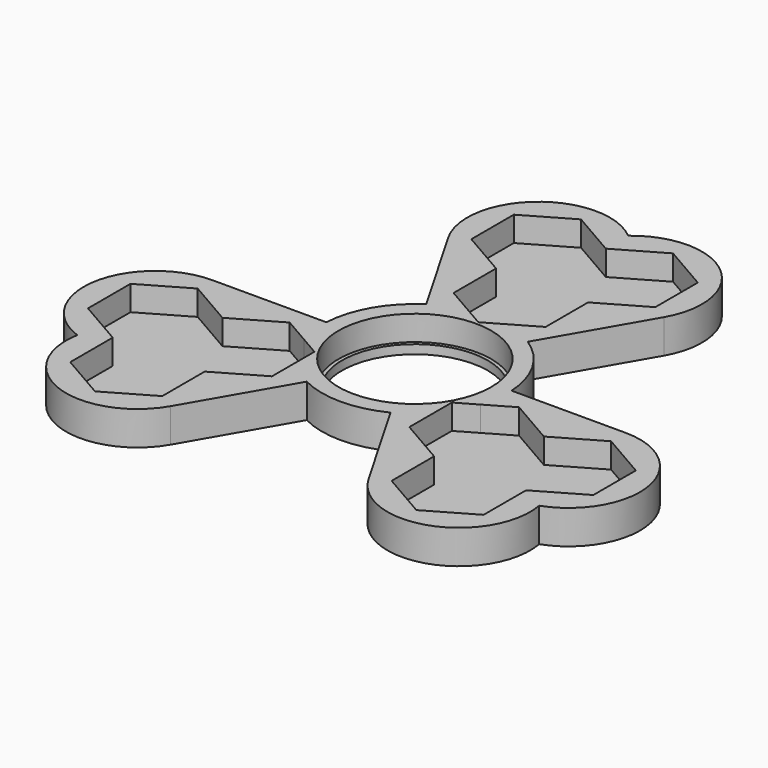
from build123d import *

# Parameters (mm, degrees)
F0_R     = 10.7
F1_DEPTH = 3.5
F0_R_2   = 10.2
F2_DEPTH = 1.25


with BuildPart() as f1:
    # F0 (on Top) → F1 (new body)
    with BuildSketch(Plane.XY):
        with BuildLine():
            Line((-15.105254, 24.721022), (-7.114419, 10.880489))
            ThreePointArc((-7.114419, 10.880489), (-5.017235, 11.992804), (-2.752749, 12.70521))
            Line((-2.752749, 12.70521), (-6.445, 14.836933))
            Line((-6.445, 14.836933), (-6.445, 22.278978))
            Line((-6.445, 22.278978), (-12.89, 26))
            Line((-12.89, 26), (-12.89, 33.442045))
            Line((-12.89, 33.442045), (-6.445, 37.163067))
            Line((-6.445, 37.163067), (0, 33.442045))
            Line((0, 33.442045), (6.445, 37.163067))
            Line((6.445, 37.163067), (12.89, 33.442045))
            Line((12.89, 33.442045), (12.89, 26))
            Line((12.89, 26), (6.445, 22.278978))
            Line((6.445, 22.278978), (6.445, 14.836933))
            Line((6.445, 14.836933), (2.752749, 12.70521))
            ThreePointArc((2.752749, 12.70521), (5.017235, 11.992804), (7.114419, 10.880489))
            Line((7.114419, 10.880489), (15.105254, 24.721022))
            ThreePointArc((15.105254, 24.721022), (12.864302, 37.388653), (0, 37.367066))
            ThreePointArc((0, 37.367066), (-12.864302, 37.388653), (-15.105254, 24.721022))
        make_face()
        with BuildLine():
            ThreePointArc((-12.979989, 0.721022), (-12.894691, -1.651349), (-12.37941, -3.968655))
            Line((-12.37941, -3.968655), (-9.62666, -5.557955))
            Line((-9.62666, -5.557955), (-9.62666, -8.736556))
            ThreePointArc((-9.62666, -8.736556), (-7.877455, -10.341455), (-5.865571, -11.601512))
            ThreePointArc((-5.865571, -11.601512), (0, -13), (5.865571, -11.601512))
            ThreePointArc((5.865571, -11.601512), (7.877455, -10.341455), (9.62666, -8.736556))
            Line((9.62666, -8.736556), (9.62666, -5.557955))
            Line((9.62666, -5.557955), (12.37941, -3.968655))
            ThreePointArc((12.37941, -3.968655), (12.894691, -1.651349), (12.979989, 0.721022))
            ThreePointArc((12.979989, 0.721022), (11.25833, 6.5), (7.114419, 10.880489))
            ThreePointArc((7.114419, 10.880489), (5.017235, 11.992804), (2.752749, 12.70521))
            Line((2.752749, 12.70521), (0, 11.11591))
            Line((0, 11.11591), (-2.752749, 12.70521))
            ThreePointArc((-2.752749, 12.70521), (-5.017235, 11.992804), (-7.114419, 10.880489))
            ThreePointArc((-7.114419, 10.880489), (-11.25833, 6.5), (-12.979989, 0.721022))
        make_face()
        Circle(F0_R, mode=Mode.SUBTRACT)
        with BuildLine():
            ThreePointArc((9.62666, -8.736556), (7.877455, -10.341455), (5.865571, -11.601512))
            Line((5.865571, -11.601512), (13.856406, -25.442045))
            ThreePointArc((13.856406, -25.442045), (25.947372, -29.835139), (32.360828, -18.683533))
            ThreePointArc((32.360828, -18.683533), (38.811675, -7.553514), (28.96166, 0.721022))
            Line((28.96166, 0.721022), (12.979989, 0.721022))
            ThreePointArc((12.979989, 0.721022), (12.894691, -1.651349), (12.37941, -3.968655))
            Line((12.37941, -3.968655), (16.07166, -1.836933))
            Line((16.07166, -1.836933), (22.51666, -5.557955))
            Line((22.51666, -5.557955), (28.96166, -1.836933))
            Line((28.96166, -1.836933), (35.40666, -5.557955))
            Line((35.40666, -5.557955), (35.40666, -13))
            Line((35.40666, -13), (28.96166, -16.721022))
            Line((28.96166, -16.721022), (28.96166, -24.163067))
            Line((28.96166, -24.163067), (22.51666, -27.88409))
            Line((22.51666, -27.88409), (16.07166, -24.163067))
            Line((16.07166, -24.163067), (16.07166, -16.721022))
            Line((16.07166, -16.721022), (9.62666, -13))
            Line((9.62666, -13), (9.62666, -8.736556))
        make_face()
        with BuildLine():
            Line((-28.96166, -24.163067), (-28.96166, -16.721022))
            Line((-28.96166, -16.721022), (-35.40666, -13))
            Line((-35.40666, -13), (-35.40666, -5.557955))
            Line((-35.40666, -5.557955), (-28.96166, -1.836933))
            Line((-28.96166, -1.836933), (-22.51666, -5.557955))
            Line((-22.51666, -5.557955), (-16.07166, -1.836933))
            Line((-16.07166, -1.836933), (-12.37941, -3.968655))
            ThreePointArc((-12.37941, -3.968655), (-12.894691, -1.651349), (-12.979989, 0.721022))
            Line((-12.979989, 0.721022), (-28.96166, 0.721022))
            ThreePointArc((-28.96166, 0.721022), (-38.811675, -7.553514), (-32.360828, -18.683533))
            ThreePointArc((-32.360828, -18.683533), (-25.947372, -29.835139), (-13.856406, -25.442045))
            Line((-13.856406, -25.442045), (-5.865571, -11.601512))
            ThreePointArc((-5.865571, -11.601512), (-7.877455, -10.341455), (-9.62666, -8.736556))
            Line((-9.62666, -8.736556), (-9.62666, -13))
            Line((-9.62666, -13), (-16.07166, -16.721022))
            Line((-16.07166, -16.721022), (-16.07166, -24.163067))
            Line((-16.07166, -24.163067), (-22.51666, -27.88409))
            Line((-22.51666, -27.88409), (-28.96166, -24.163067))
        make_face()
    extrude(amount=F1_DEPTH)

    # F0 (on Top) → F2 (join)
    with BuildSketch(Plane.XY):
        with BuildLine():
            Line((-28.96166, -24.163067), (-28.96166, -16.721022))
            Line((-28.96166, -16.721022), (-35.40666, -13))
            Line((-35.40666, -13), (-35.40666, -5.557955))
            Line((-35.40666, -5.557955), (-28.96166, -1.836933))
            Line((-28.96166, -1.836933), (-22.51666, -5.557955))
            Line((-22.51666, -5.557955), (-16.07166, -1.836933))
            Line((-16.07166, -1.836933), (-12.37941, -3.968655))
            ThreePointArc((-12.37941, -3.968655), (-12.894691, -1.651349), (-12.979989, 0.721022))
            Line((-12.979989, 0.721022), (-28.96166, 0.721022))
            ThreePointArc((-28.96166, 0.721022), (-38.811675, -7.553514), (-32.360828, -18.683533))
            ThreePointArc((-32.360828, -18.683533), (-25.947372, -29.835139), (-13.856406, -25.442045))
            Line((-13.856406, -25.442045), (-5.865571, -11.601512))
            ThreePointArc((-5.865571, -11.601512), (-7.877455, -10.341455), (-9.62666, -8.736556))
            Line((-9.62666, -8.736556), (-9.62666, -13))
            Line((-9.62666, -13), (-16.07166, -16.721022))
            Line((-16.07166, -16.721022), (-16.07166, -24.163067))
            Line((-16.07166, -24.163067), (-22.51666, -27.88409))
            Line((-22.51666, -27.88409), (-28.96166, -24.163067))
        make_face()
        with BuildLine():
            ThreePointArc((-12.979989, 0.721022), (-12.894691, -1.651349), (-12.37941, -3.968655))
            Line((-12.37941, -3.968655), (-9.62666, -5.557955))
            Line((-9.62666, -5.557955), (-9.62666, -8.736556))
            ThreePointArc((-9.62666, -8.736556), (-7.877455, -10.341455), (-5.865571, -11.601512))
            ThreePointArc((-5.865571, -11.601512), (0, -13), (5.865571, -11.601512))
            ThreePointArc((5.865571, -11.601512), (7.877455, -10.341455), (9.62666, -8.736556))
            Line((9.62666, -8.736556), (9.62666, -5.557955))
            Line((9.62666, -5.557955), (12.37941, -3.968655))
            ThreePointArc((12.37941, -3.968655), (12.894691, -1.651349), (12.979989, 0.721022))
            ThreePointArc((12.979989, 0.721022), (11.25833, 6.5), (7.114419, 10.880489))
            ThreePointArc((7.114419, 10.880489), (5.017235, 11.992804), (2.752749, 12.70521))
            Line((2.752749, 12.70521), (0, 11.11591))
            Line((0, 11.11591), (-2.752749, 12.70521))
            ThreePointArc((-2.752749, 12.70521), (-5.017235, 11.992804), (-7.114419, 10.880489))
            ThreePointArc((-7.114419, 10.880489), (-11.25833, 6.5), (-12.979989, 0.721022))
        make_face()
        Circle(F0_R, mode=Mode.SUBTRACT)
        with BuildLine():
            Line((-15.105254, 24.721022), (-7.114419, 10.880489))
            ThreePointArc((-7.114419, 10.880489), (-5.017235, 11.992804), (-2.752749, 12.70521))
            Line((-2.752749, 12.70521), (-6.445, 14.836933))
            Line((-6.445, 14.836933), (-6.445, 22.278978))
            Line((-6.445, 22.278978), (-12.89, 26))
            Line((-12.89, 26), (-12.89, 33.442045))
            Line((-12.89, 33.442045), (-6.445, 37.163067))
            Line((-6.445, 37.163067), (0, 33.442045))
            Line((0, 33.442045), (6.445, 37.163067))
            Line((6.445, 37.163067), (12.89, 33.442045))
            Line((12.89, 33.442045), (12.89, 26))
            Line((12.89, 26), (6.445, 22.278978))
            Line((6.445, 22.278978), (6.445, 14.836933))
            Line((6.445, 14.836933), (2.752749, 12.70521))
            ThreePointArc((2.752749, 12.70521), (5.017235, 11.992804), (7.114419, 10.880489))
            Line((7.114419, 10.880489), (15.105254, 24.721022))
            ThreePointArc((15.105254, 24.721022), (12.864302, 37.388653), (0, 37.367066))
            ThreePointArc((0, 37.367066), (-12.864302, 37.388653), (-15.105254, 24.721022))
        make_face()
        with BuildLine():
            ThreePointArc((9.62666, -8.736556), (7.877455, -10.341455), (5.865571, -11.601512))
            Line((5.865571, -11.601512), (13.856406, -25.442045))
            ThreePointArc((13.856406, -25.442045), (25.947372, -29.835139), (32.360828, -18.683533))
            ThreePointArc((32.360828, -18.683533), (38.811675, -7.553514), (28.96166, 0.721022))
            Line((28.96166, 0.721022), (12.979989, 0.721022))
            ThreePointArc((12.979989, 0.721022), (12.894691, -1.651349), (12.37941, -3.968655))
            Line((12.37941, -3.968655), (16.07166, -1.836933))
            Line((16.07166, -1.836933), (22.51666, -5.557955))
            Line((22.51666, -5.557955), (28.96166, -1.836933))
            Line((28.96166, -1.836933), (35.40666, -5.557955))
            Line((35.40666, -5.557955), (35.40666, -13))
            Line((35.40666, -13), (28.96166, -16.721022))
            Line((28.96166, -16.721022), (28.96166, -24.163067))
            Line((28.96166, -24.163067), (22.51666, -27.88409))
            Line((22.51666, -27.88409), (16.07166, -24.163067))
            Line((16.07166, -24.163067), (16.07166, -16.721022))
            Line((16.07166, -16.721022), (9.62666, -13))
            Line((9.62666, -13), (9.62666, -8.736556))
        make_face()
        Polygon((22.51666, -13), (16.07166, -16.721022), (16.07166, -24.163067), (22.51666, -27.88409), (28.96166, -24.163067), (28.96166, -16.721022), align=None)
        Polygon((0, 33.442045), (0, 26), (6.445, 22.278978), (12.89, 26), (12.89, 33.442045), (6.445, 37.163067), align=None)
        Polygon((-12.89, 26), (-6.445, 22.278978), (0, 26), (0, 33.442045), (-6.445, 37.163067), (-12.89, 33.442045), align=None)
        Polygon((-6.445, 14.836933), (-2.752749, 12.70521), (0, 11.11591), (2.752749, 12.70521), (6.445, 14.836933), (6.445, 22.278978), (0, 26), (-6.445, 22.278978), align=None)
        Polygon((22.51666, -5.557955), (22.51666, -13), (28.96166, -16.721022), (35.40666, -13), (35.40666, -5.557955), (28.96166, -1.836933), align=None)
        Polygon((9.62666, -5.557955), (9.62666, -8.736556), (9.62666, -13), (16.07166, -16.721022), (22.51666, -13), (22.51666, -5.557955), (16.07166, -1.836933), (12.37941, -3.968655), align=None)
        Polygon((22.51666, -13), (16.07166, -16.721022), (16.07166, -24.163067), (22.51666, -27.88409), (28.96166, -24.163067), (28.96166, -16.721022), align=None)
        Polygon((-22.51666, -5.557955), (-22.51666, -13), (-16.07166, -16.721022), (-9.62666, -13), (-9.62666, -8.736556), (-9.62666, -5.557955), (-12.37941, -3.968655), (-16.07166, -1.836933), align=None)
        Polygon((-28.96166, -16.721022), (-22.51666, -13), (-22.51666, -5.557955), (-28.96166, -1.836933), (-35.40666, -5.557955), (-35.40666, -13), align=None)
        Polygon((-16.07166, -16.721022), (-22.51666, -13), (-28.96166, -16.721022), (-28.96166, -24.163067), (-22.51666, -27.88409), (-16.07166, -24.163067), align=None)
        Circle(F0_R)
        Circle(F0_R_2, mode=Mode.SUBTRACT)
    extrude(amount=-F2_DEPTH)


solid = f1.part
